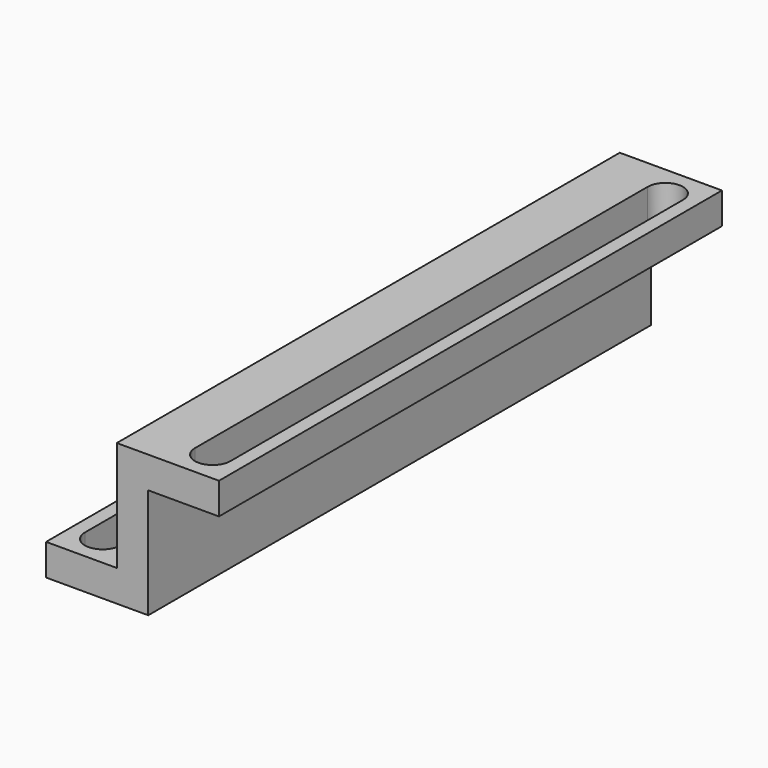
from build123d import *

# Parameters (mm, degrees)
F0_W     = 9
F0_H     = 80
F1_DEPTH = 4
F0_W_2   = 4
F2_DEPTH = 18
F3_START = 14
F3_DEPTH = 4


with BuildPart() as f1:
    # F0 (on Top) → F1 (new body)
    with BuildSketch(Plane.XY):
        with Locations((-6.5, 0)):
            Rectangle(F0_W, F0_H)
        with BuildLine():
            ThreePointArc((-9.25, 36), (-7, 38.25), (-4.75, 36))
            Line((-4.75, 36), (-4.75, -36))
            ThreePointArc((-4.75, -36), (-7, -38.25), (-9.25, -36))
            Line((-9.25, -36), (-9.25, 36))
        make_face(mode=Mode.SUBTRACT)
    extrude(amount=F1_DEPTH)

    # F0 (on Top) → F2 (join)
    with BuildSketch(Plane.XY):
        Rectangle(F0_W_2, F0_H)
    extrude(amount=F2_DEPTH)

    # F0 (on Top) → F3 (join)
    with BuildSketch(Plane.XY.offset(F3_START)):
        with Locations((6.5, 0)):
            Rectangle(F0_W, F0_H)
        with BuildLine():
            ThreePointArc((4.75, 36), (7, 38.25), (9.25, 36))
            Line((9.25, 36), (9.25, -36))
            ThreePointArc((9.25, -36), (7, -38.25), (4.75, -36))
            Line((4.75, -36), (4.75, 36))
        make_face(mode=Mode.SUBTRACT)
    extrude(amount=F3_DEPTH)


solid = f1.part
